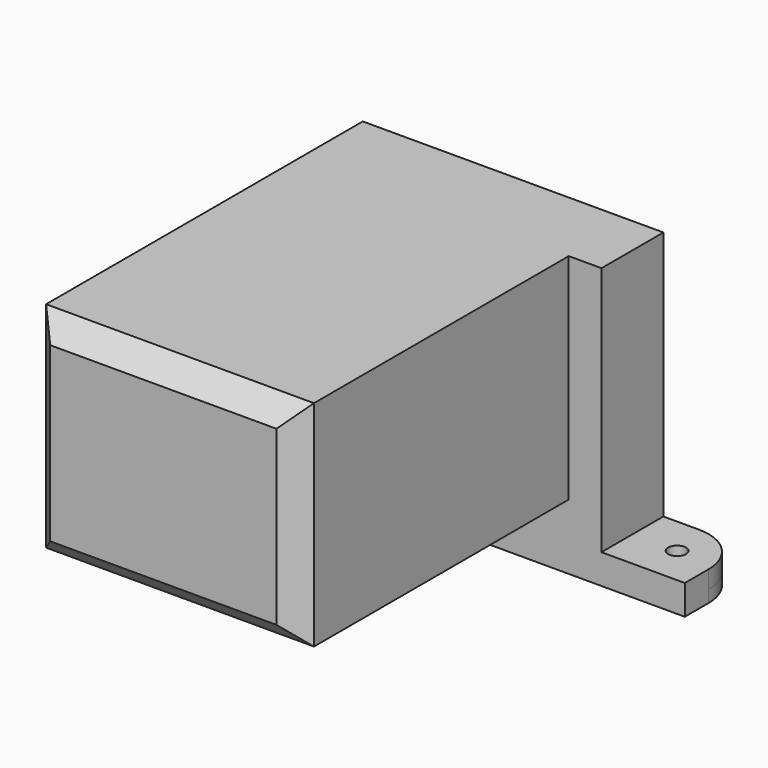
from build123d import *

# Parameters (mm, degrees)
F0_W      = 76
F0_H      = 13
F1_DEPTH  = 2
F2_R      = 8
F3_W      = 43
F3_H      = 13
F4_DEPTH  = 9
F5_W      = 43
F5_H      = 36
F6_DEPTH  = 70
F8_DEPTH  = 41
F10_DEPTH = 2
F12_DEPTH = 3
F13_R     = 1.5
F14_DEPTH = 25
F15_W     = 5.5
F15_H     = 13
F16_DEPTH = 42
F17_SIZE  = 3.5


with BuildPart() as f1:
    # F0 (on Top) → F1 (new body)
    with BuildSketch(Plane.XY):
        Rectangle(F0_W, F0_H)
    extrude(amount=F1_DEPTH)

    # F2
    f2_edges = [f1.edges().sort_by_distance(p)[0] for p in [
        (-38, 6.5, 1),
        (38, 6.5, 1),
    ]]
    fillet(f2_edges, radius=F2_R)

    # F3 (on face) → F4 (join)
    with BuildSketch(Plane.XY.offset(2)):
        with Locations((-5, 0)):
            Rectangle(F3_W, F3_H)
    extrude(amount=F4_DEPTH)

    # F5 (on face) → F6 (join)
    with BuildSketch(Plane(origin=(0, 6.5, 0), x_dir=(-1, 0, 0), z_dir=(0, 1, 0))):
        with Locations((5, 29)):
            Rectangle(F5_W, F5_H)
    extrude(amount=-F6_DEPTH)

    # F7 (on face) → F8 (cut)
    with BuildSketch(Plane.YZ.offset(16.5)):
        Polygon((-57.5, 15), (-2.5, 15), (-2.5, 6), (2.5, 6), (2.5, 43), (-57.5, 43), align=None)
    extrude(amount=-F8_DEPTH, mode=Mode.SUBTRACT)

    # F9 (on face) → F10 (join)
    with BuildSketch(Plane.YZ.offset(16.5)):
        Polygon((-63.5, 11), (-6.5, 11), (-6.5, 2), (6.5, 2), (6.5, 47), (-63.5, 47), align=None)
    extrude(amount=F10_DEPTH)

    # F11 (on face) → F12 (join)
    with BuildSketch(Plane.XY.offset(2)):
        with BuildLine():
            Line((-38, -6.5), (-26.5, -6.5))
            Line((-26.5, -6.5), (-26.5, 6.5))
            Line((-26.5, 6.5), (-30, 6.5))
            ThreePointArc((-30, 6.5), (-35.656854, 4.156854), (-38, -1.5))
            Line((-38, -1.5), (-38, -6.5))
        make_face()
        with BuildLine():
            ThreePointArc((38, -1.5), (35.656854, 4.156854), (30, 6.5))
            Line((30, 6.5), (18.5, 6.5))
            Line((18.5, 6.5), (18.5, -6.5))
            Line((18.5, -6.5), (38, -6.5))
            Line((38, -6.5), (38, -1.5))
        make_face()
    extrude(amount=F12_DEPTH)

    # F13 (on face) → F14 (cut)
    with BuildSketch(Plane.XY.offset(5)):
        with Locations((-31.5, 0)):
            Circle(F13_R)
        with Locations((31.5, 0)):
            Circle(F13_R)
    extrude(amount=-F14_DEPTH, mode=Mode.SUBTRACT)

    # F15 (on face) → F16 (join)
    with BuildSketch(Plane.XY.offset(5)):
        with Locations((21.25, 0)):
            Rectangle(F15_W, F15_H)
    extrude(amount=F16_DEPTH)

    # F17
    f17_edges = [f1.edges().sort_by_distance(p)[0] for p in [
        (18.5, -63.5, 29),
        (-4, -63.5, 47),
        (-4, -63.5, 11),
        (-26.5, -63.5, 29),
    ]]
    chamfer(f17_edges, length=F17_SIZE)


solid = f1.part
